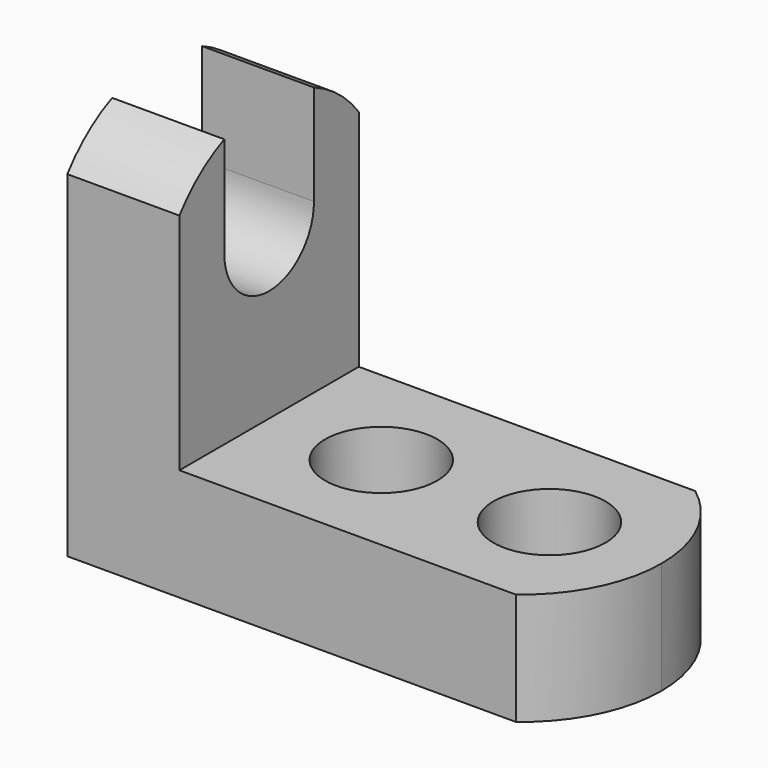
from build123d import *

# Parameters (mm, degrees)
F0_W      = 57.15
F0_H      = 44.45
F1_DEPTH  = 25.4
F2_W      = 44.45
F2_H      = 31.75
F3_DEPTH  = 25.4
F5_DEPTH  = 25.4
F6_R      = 6.35
F7_DEPTH  = 25.4
F9_DEPTH  = 25.4
F11_DEPTH = 25.4


with BuildPart() as f1:
    # F0 (on Front) → F1 (new body)
    with BuildSketch(Plane.XZ):
        with Locations((28.575, 22.225)):
            Rectangle(F0_W, F0_H)
    extrude(amount=-F1_DEPTH)

    # F2 (on Front) → F3 (cut)
    with BuildSketch(Plane.XZ):
        with Locations((34.925, 28.575)):
            Rectangle(F2_W, F2_H)
    extrude(amount=-F3_DEPTH, mode=Mode.SUBTRACT)

    # F4 (on Top) → F5 (cut)
    with BuildSketch(Plane.XY):
        with BuildLine():
            ThreePointArc((50.8, 25.4), (55.474032, 19.799516), (57.15, 12.7))
            Line((57.15, 12.7), (57.15, 25.4))
            Line((57.15, 25.4), (50.8, 25.4))
        make_face()
        with BuildLine():
            ThreePointArc((57.15, 12.7), (55.474032, 5.600484), (50.8, 0))
            Line((50.8, 0), (57.15, 0))
            Line((57.15, 0), (57.15, 12.7))
        make_face()
    extrude(amount=F5_DEPTH, mode=Mode.SUBTRACT)

    # F6 (on Top) → F7 (cut)
    with BuildSketch(Plane.XY):
        with Locations((25.4, 12.7)):
            Circle(F6_R)
        with Locations((44.45, 12.7)):
            Circle(F6_R)
    extrude(amount=F7_DEPTH, mode=Mode.SUBTRACT)

    # F8 (on Right) → F9 (cut)
    with BuildSketch(Plane.YZ):
        with BuildLine():
            Line((19.05, 44.45), (6.35, 44.45))
            Line((6.35, 44.45), (6.35, 31.75))
            ThreePointArc((6.35, 31.75), (12.7, 25.4), (19.05, 31.75))
            Line((19.05, 31.75), (19.05, 44.45))
        make_face()
    extrude(amount=F9_DEPTH, mode=Mode.SUBTRACT)

    # F10 (on Right) → F11 (cut)
    with BuildSketch(Plane.YZ):
        with BuildLine():
            ThreePointArc((0, 38.1), (5.600484, 42.774032), (12.7, 44.45))
            Line((12.7, 44.45), (0, 44.45))
            Line((0, 44.45), (0, 38.1))
        make_face()
        with BuildLine():
            ThreePointArc((12.7, 44.45), (19.799516, 42.774032), (25.4, 38.1))
            Line((25.4, 38.1), (25.4, 44.45))
            Line((25.4, 44.45), (12.7, 44.45))
        make_face()
    extrude(amount=F11_DEPTH, mode=Mode.SUBTRACT)


solid = f1.part
